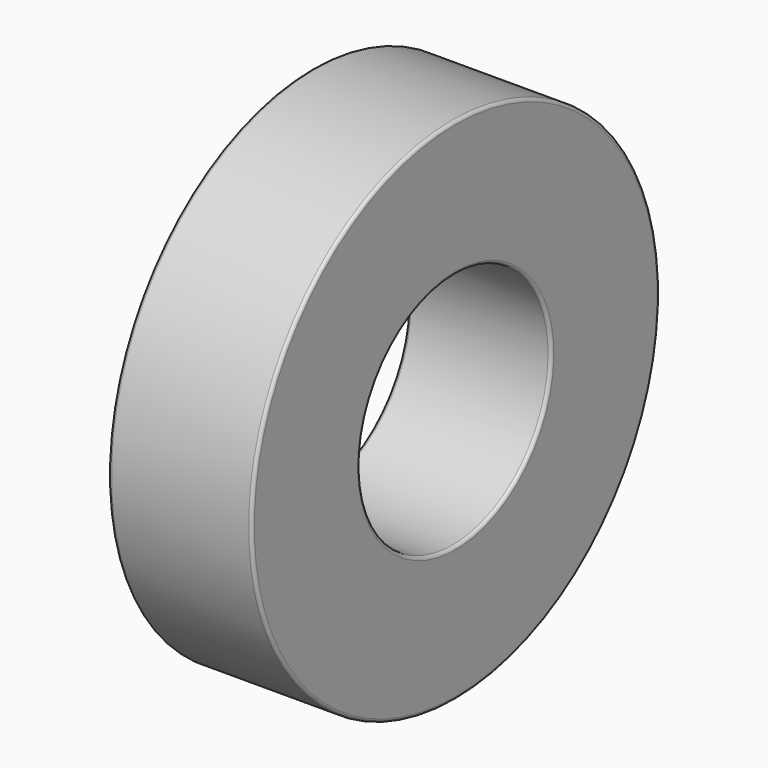
from build123d import *

# Parameters (mm, degrees)
F0_W = 9
F0_H = 8.5
F2_R = 0.2


with BuildPart() as f1:
    # F0 (on Front) → F1 (revolve)
    with BuildSketch(Plane.XZ):
        with Locations((0.182927, 11.75)):
            Rectangle(F0_W, F0_H)
    revolve(axis=Axis((0.823171, 0, 0), (1, 0, 0)))

    # F2
    f2_edges = [f1.edges().sort_by_distance(p)[0] for p in [
        (-4.317073, 0, -7.5),
        (4.682927, 0, -7.5),
        (0.182927, 0, 7.5),
        (4.682927, 0, -16),
        (-4.317073, 0, -16),
        (0.182927, 0, 16),
    ]]
    fillet(f2_edges, radius=F2_R)


solid = f1.part
